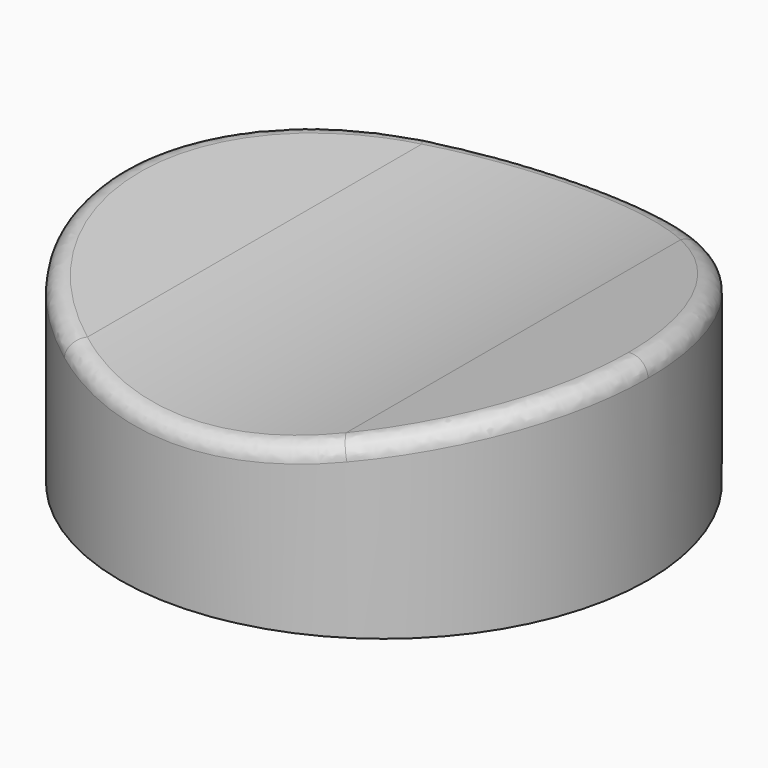
from build123d import *

# Parameters (mm, degrees)
F0_R     = 8
F1_DEPTH = 6
F4_DEPTH = 16.001
F5_R     = 20
F6_R     = 0.5


with BuildPart() as f1:
    # F0 (on Top) → F1 (new body)
    with BuildSketch(Plane.XY):
        Circle(F0_R)
    extrude(amount=F1_DEPTH)

    # F3 (on offset) → F4 (cut, through all)
    with BuildSketch(Plane.XZ.offset(8)):
        Polygon((8, 6), (-8, 6), (0, 4.4), align=None)
    extrude(amount=-F4_DEPTH, mode=Mode.SUBTRACT)

    # F5
    f5_edges = [f1.edges().sort_by_distance(p)[0] for p in [
        (0, 0, 4.4),
    ]]
    fillet(f5_edges, radius=F5_R)

    # F6
    f6_edges = [f1.edges().sort_by_distance(p)[0] for p in [
        (-6.896857, -4.053808, 5.779371),
        (-6.896857, 4.053808, 5.779371),
    ]]
    fillet(f6_edges, radius=F6_R)


solid = f1.part
